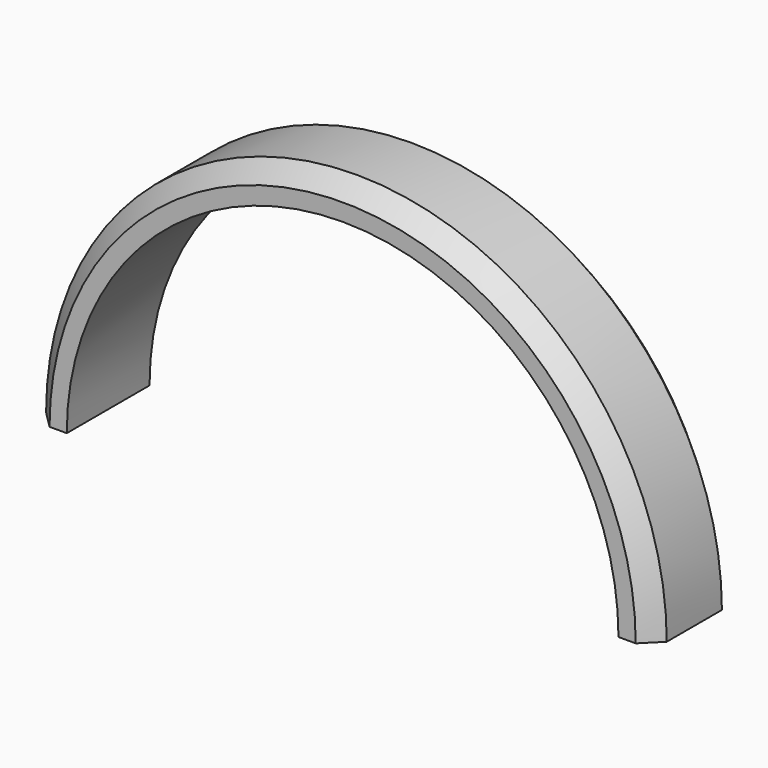
from build123d import *

# Parameters (mm, degrees)
F1_ANGLE = 180


with BuildPart() as f1:
    # F0 (on Top) → F1 (revolve)
    with BuildSketch(Plane.XY):
        Polygon((107.95, 19.05), (101.6, 19.05), (101.6, 0), (114.3, 0), (114.3, 12.7), align=None)
    revolve(axis=Axis((0, 5.0604422272, 0), (0, -1, 0)), revolution_arc=F1_ANGLE)

    # F2: F1 across plane


with BuildPart() as f1_1:
    add(f1.part)
    add(f1.part.mirror(Plane.XZ))


solid = f1_1.part
